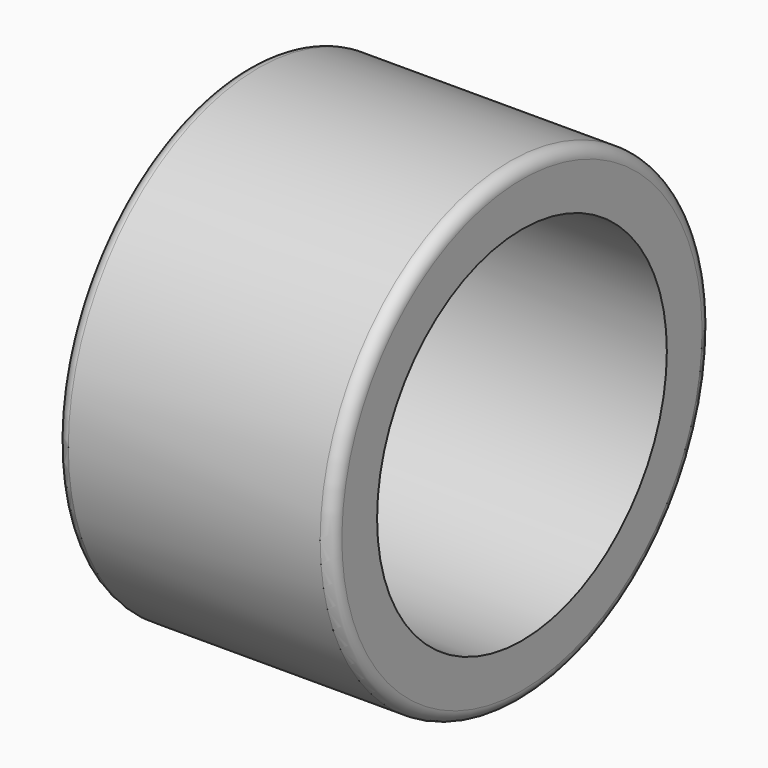
from build123d import *

# Parameters (mm, degrees)
CYLINDER041_R        = 10.5
CYLINDER041_DEPTH    = 20
CYLINDER040_R        = 13.75
CYLINDER040_DEPTH    = 16
FILLET013_R          = 0.7
CLONE043_PITCH_ANGLE = 90


with BuildPart() as cylinder041:
    # Cylinder041 → Cylinder041 (new body)
    with BuildSketch(Plane.XY.offset(-1)):
        Circle(CYLINDER041_R)
    extrude(amount=CYLINDER041_DEPTH)


with BuildPart() as right_wheel:
    # Cylinder040 → Cylinder040 (new body)
    with BuildSketch(Plane.XY):
        Circle(CYLINDER040_R)
    extrude(amount=CYLINDER040_DEPTH)

    # Cut027: cut Cylinder041
    add(cylinder041.part, mode=Mode.SUBTRACT)

    # Fillet013
    fillet013_edges = [right_wheel.edges().sort_by_distance(p)[0] for p in [
        (-13.75, 0, 16),
        (-13.75, 0, 0),
    ]]
    fillet(fillet013_edges, radius=FILLET013_R)


with BuildPart() as right_wheel_1:
    # Clone043 pitch: moved
    add(right_wheel.part.rotate(Axis((0, 0, 0), (0, 1, 0)), CLONE043_PITCH_ANGLE))


with BuildPart() as right_wheel_2:
    # Clone043 placement: moved
    add(right_wheel_1.part.moved(Location((43, 0, 5))))


solid = right_wheel_2.part
